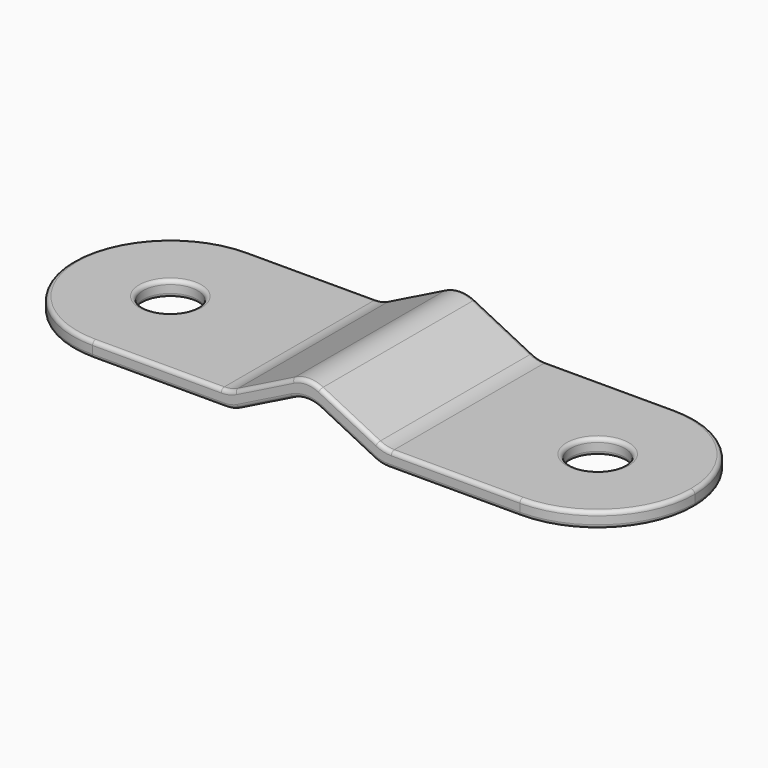
from build123d import *

# Parameters (mm, degrees)
F1_DEPTH = 12.5
F2_R     = 3.5
F3_DEPTH = 2.001000095
F6_DEPTH = 2.001000095
F7_R     = 4
F8_R     = 0.5


with BuildPart() as f1:
    # F0 (on Front) → F1 (new body, symmetric)
    with BuildSketch(Plane.XZ):
        Polygon((-10, 0), (-40, 0), (-40, -2.000000095), (-9.5278640226, -2.000000095), (0, 2.7639319163), (9.5278640226, -2.000000095), (40, -2.000000095), (40, 0), (10, 0), (0, 5), align=None)
    extrude(amount=F1_DEPTH, both=True)

    # F2 (on Top) → F3 (cut, through all)
    with BuildSketch(Plane.XY):
        with Locations((-27.5, 0)):
            Circle(F2_R)
        with Locations((27.5, 0)):
            Circle(F2_R)
    extrude(amount=-F3_DEPTH, mode=Mode.SUBTRACT)

    # F4 (on face) + F5 (on face) → F6 (cut, through all)
    with BuildSketch(Plane.XY):
        with BuildLine():
            Line((-40, -12.5), (-27.5, -12.5))
            ThreePointArc((-27.5, -12.5), (-36.3388347648, -8.8388347648), (-40, 0))
            Line((-40, 0), (-40, -12.5))
        make_face()
        with BuildLine():
            ThreePointArc((-40, 0), (-36.3388347648, 8.8388347648), (-27.5, 12.5))
            Line((-27.5, 12.5), (-40, 12.5))
            Line((-40, 12.5), (-40, 0))
        make_face()
    with BuildSketch(Plane.XY):
        with BuildLine():
            Line((40, -12.5), (40, 0))
            ThreePointArc((40, 0), (36.3388347648, -8.8388347648), (27.5, -12.5))
            Line((27.5, -12.5), (40, -12.5))
        make_face()
        with BuildLine():
            ThreePointArc((27.5, 12.5), (36.3388347648, 8.8388347648), (40, 0))
            Line((40, 0), (40, 12.5))
            Line((40, 12.5), (27.5, 12.5))
        make_face()
    extrude(amount=-F6_DEPTH, mode=Mode.SUBTRACT)

    # F7
    f7_edges = [f1.edges().sort_by_distance(p)[0] for p in [
        (0, 0, 5),
        (10, 0, 0),
        (-10, 0, 0),
        (0, 0, 2.763932),
        (9.527864, 0, -2),
        (-9.527864, 0, -2),
    ]]
    fillet(f7_edges, radius=F7_R)

    # F8
    f8_edges = [f1.edges().sort_by_distance(p)[0] for p in [
        (19.222136, 12.5, 0),
        (18.986068, 12.5, -2),
        (24, 0, -2),
        (-31, 0, -2),
        (-31, 0, 0),
        (24, 0, 0),
    ]]
    fillet(f8_edges, radius=F8_R)


solid = f1.part
